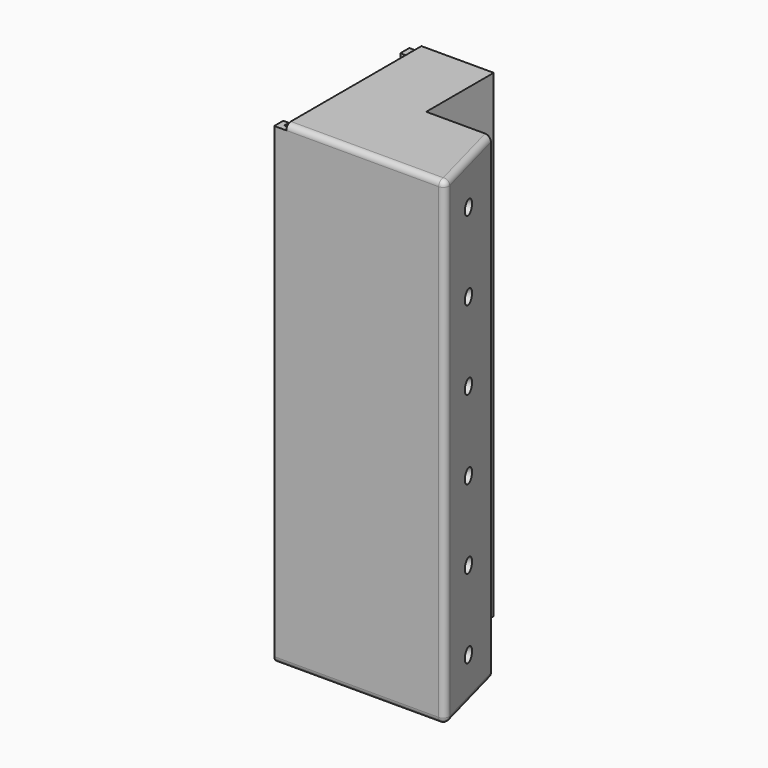
from build123d import *

# Parameters (mm, degrees)
F1_DEPTH  = 2
F3_DEPTH  = 166
F5_D      = 5
F5_DEPTH  = 10
F7_DEPTH  = 2
F8_R      = 2
F10_DEPTH = 25
F12_DEPTH = 10
F14_DEPTH = 1
F16_DEPTH = 1


with BuildPart() as f1:
    # F0 (on Top) → F1 (new body)
    with BuildSketch(Plane.XY):
        Polygon((-42.839942, -39.786562), (18.198534, -39.786562), (10.160058, -9.786562), (-12.839942, -9.786562), (-12.839942, 20.213438), (-42.839942, 20.213438), (-42.839942, -9.786562), align=None)
    extrude(amount=F1_DEPTH)

    # F2 (on face) → F3 (join)
    with BuildSketch(Plane.XY.offset(2)):
        Polygon((-36.539942, 16.213438), (-36.539942, 18.213438), (-14.839942, 18.213438), (-14.839942, -11.786562), (8.625404, -11.786562), (15.592083, -37.786562), (-36.539942, -37.786562), (-36.539942, -35.786562), (-38.539942, -35.786562), (-38.539942, -37.786562), (-40.839942, -37.786562), (-40.839942, -35.786562), (-42.839942, -35.786562), (-42.839942, -39.786562), (18.198534, -39.786562), (10.160058, -9.786562), (-12.839942, -9.786562), (-12.839942, 20.213438), (-42.839942, 20.213438), (-42.839942, 16.213438), (-40.839942, 16.213438), (-40.839942, 18.213438), (-38.539942, 18.213438), (-38.539942, 16.213438), align=None)
    extrude(amount=F3_DEPTH)

    # F5
    with Locations(Plane(origin=(7.032822, 1.884439, 0), x_dir=(-0.258819, 0.965926, 0), z_dir=(0.965926, 0.258819, 0))):
        with Locations((-27.611852, 155), (-27.611852, 127), (-27.611852, 99), (-27.611852, 71), (-27.611852, 43), (-27.611852, 15)):
            Hole(F5_D / 2, depth=F5_DEPTH)

    # F6 (on face) → F7 (join)
    with BuildSketch(Plane.XY.offset(168)):
        Polygon((-38.539942, -39.786562), (18.198534, -39.786562), (10.160058, -9.786562), (-12.839942, -9.786562), (-12.839942, 20.213438), (-38.539942, 20.213438), (-38.539942, -37.786562), align=None)
        Polygon((-38.539942, -39.786562), (18.198534, -39.786562), (10.160058, -9.786562), (-12.839942, -9.786562), (-12.839942, 20.213438), (-38.539942, 20.213438), (-38.539942, -37.786562), align=None)
    extrude(amount=F7_DEPTH)

    # F8
    f8_edges = [f1.edges().sort_by_distance(p)[0] for p in [
        (-12.320704, -39.786562, 0),
        (18.198534, -39.786562, 85),
        (14.179296, -24.786562, 0),
        (-10.170704, -39.786562, 170),
        (14.179296, -24.786562, 170),
    ]]
    fillet(f8_edges, radius=F8_R)

    # F9 (on face) → F10 (cut)
    with BuildSketch(Plane(origin=(0, 0, 0), x_dir=(1, 0, 0), z_dir=(0, 0, -1))):
        with BuildLine():
            ThreePointArc((-39.839942, -8.775018), (-38.425729, -8.189231), (-37.839942, -6.775018))
            ThreePointArc((-37.839942, -6.775018), (-38.425729, -5.360804), (-39.839942, -4.775018))
            ThreePointArc((-39.839942, -4.775018), (-41.839942, -6.775018), (-39.839942, -8.775018))
        make_face()
        with BuildLine():
            ThreePointArc((-39.839942, -8.775018), (-41.839942, -6.775018), (-39.839942, -4.775018))
            Line((-39.839942, -4.775018), (-42.839942, -4.775018))
            Line((-42.839942, -4.775018), (-42.839942, -8.775018))
            Line((-42.839942, -8.775018), (-39.839942, -8.775018))
        make_face()
    extrude(amount=-F10_DEPTH, mode=Mode.SUBTRACT)

    # F11 (on face) → F12 (join)
    with BuildSketch(Plane(origin=(-14.839942, 0, 0), x_dir=(0, -1, 0), z_dir=(-1, 0, 0))):
        Polygon((3.486562, 44.687904), (1.486562, 44.687904), (1.486562, 42.687904), (-0.513438, 42.687904), (-0.513438, 40.687904), (3.486562, 40.687904), align=None)
        Polygon((-16.213438, 42.687904), (-16.213438, 44.687904), (-18.213438, 44.687904), (-18.213438, 40.687904), (-14.213438, 40.687904), (-14.213438, 42.687904), align=None)
        Polygon((-16.213438, 83.787904), (-16.213438, 85.787904), (-14.213438, 85.787904), (-14.213438, 87.787904), (-18.213438, 87.787904), (-18.213438, 83.787904), align=None)
        Polygon((-0.513438, 87.787904), (-0.513438, 85.787904), (1.486562, 85.787904), (1.486562, 83.787904), (3.486562, 83.787904), (3.486562, 87.787904), align=None)
    extrude(amount=F12_DEPTH)

    # F13 (on face) → F14 (cut)
    with BuildSketch(Plane.XY.offset(2)):
        Polygon((14.556807, -37.786562), (7.590128, -11.786562), (-14.839942, -11.786562), (-14.839942, -37.786562), align=None)
    extrude(amount=-F14_DEPTH, mode=Mode.SUBTRACT)

    # F15 (on face) → F16 (cut)
    with BuildSketch(Plane(origin=(0, 0, 168), x_dir=(1, 0, 0), z_dir=(0, 0, -1))):
        Polygon((-14.839942, 11.786562), (7.590128, 11.786562), (14.556807, 37.786562), (-14.839942, 37.786562), align=None)
    extrude(amount=-F16_DEPTH, mode=Mode.SUBTRACT)


solid = f1.part
